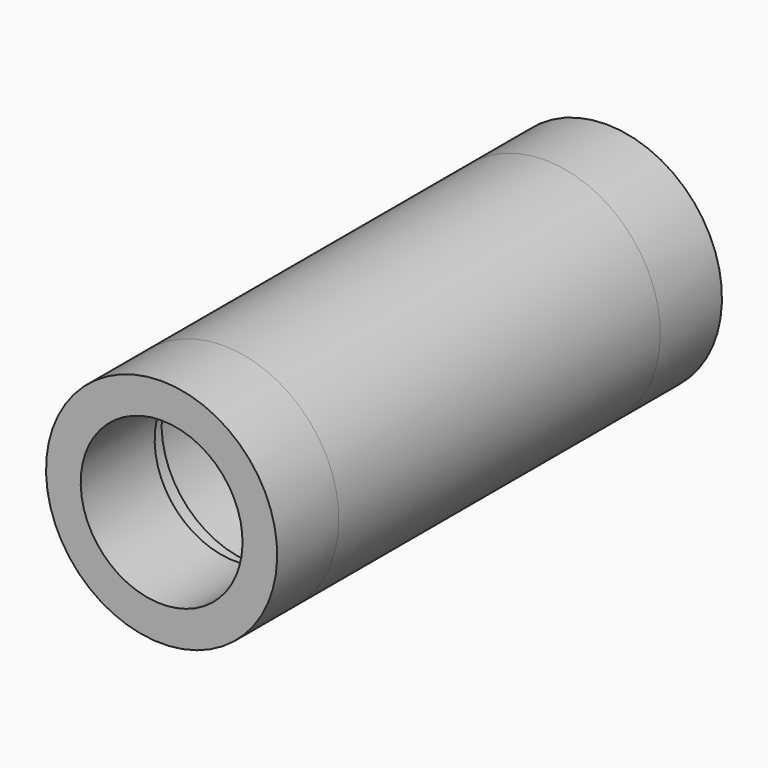
from build123d import *


with BuildPart() as f1:
    # F0 (on Right) → F1 (revolve)
    with BuildSketch(Plane.YZ):
        Polygon((-3, 12), (0, 12), (0, 13), (-5, 13), (-5, 15), (-15, 15), (-15, 10.5), (-3, 10.5), align=None)
        Polygon((41.161305, 13), (39.661305, 13), (39.661305, 10.8), (49.161305, 10.8), (49.161305, 12.5), (49.561905, 12.5), (51.441905, 12.5), (52.441905, 12.5), (57.161305, 13.764512), (57.161305, 15), (47.161305, 15), (47.161305, 13), (43.161305, 13), (43.161305, 11.8), (41.161305, 11.8), align=None)
    revolve(axis=Axis((0, 14.743851, 0), (0, 1, 0)))


with BuildPart() as f2:
    # F0 (on Right) → F2 (revolve)
    with BuildSketch(Plane.YZ):
        Polygon((-5, 13), (0, 13), (39.661305, 13), (41.161305, 13), (43.161305, 13), (47.161305, 13), (47.161305, 15), (-5, 15), align=None)
    revolve(axis=Axis((0, 14.743851, 0), (0, 1, 0)))


solid = Compound([f1.part, f2.part])
